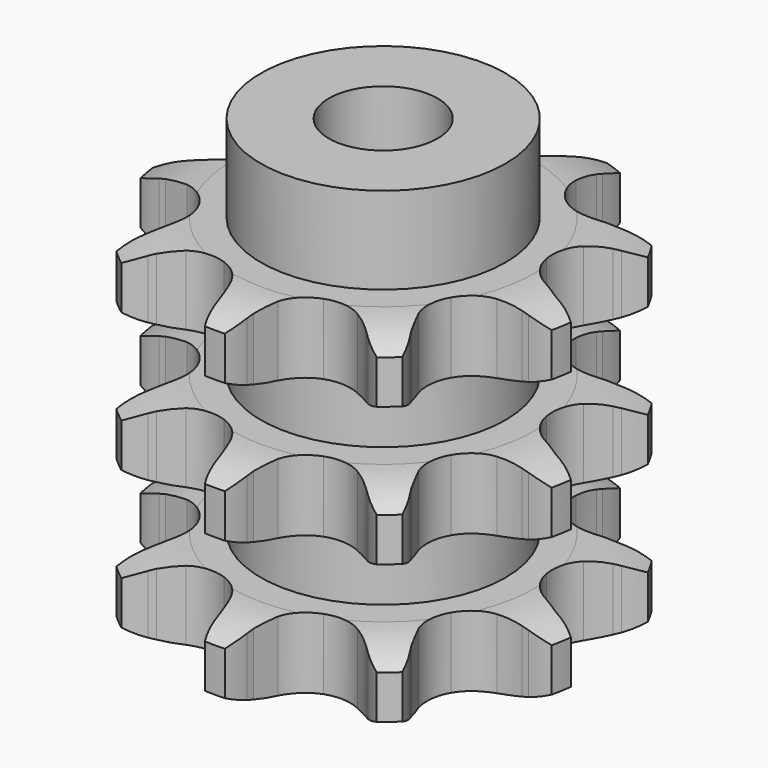
from build123d import *

# Parameters (mm, degrees)
PAD_DEPTH         = 25.6
SKETCH001_R       = 9
PAD001_DEPTH      = 32
SKETCH002_R       = 4
POCKET_DEPTH      = 0.001
POCKET_DEPTH_BACK = 32.001


with BuildPart() as part:
    # Sprocket → Pad (new body)
    with BuildSketch(Plane.XY):
        with BuildLine():
            ThreePointArc((-5.677804, 15.599638), (-4.530468, 14.728486), (-3.653036, 13.585944))
            Line((-3.653036, 13.585944), (-3.408939, 13.161256))
            ThreePointArc((-3.408939, 13.161256), (-2.946106, 12.443997), (-2.412125, 11.778009))
            ThreePointArc((-2.412125, 11.778009), (-1.321918, 10.978636), (0, 10.695643))
            ThreePointArc((0, 10.695643), (1.321918, 10.978636), (2.412125, 11.778009))
            ThreePointArc((2.412125, 11.778009), (2.946106, 12.443997), (3.408939, 13.161256))
            Line((3.408939, 13.161256), (3.653036, 13.585944))
            ThreePointArc((3.653036, 13.585944), (4.530468, 14.728486), (5.677804, 15.599638))
            ThreePointArc((5.677804, 15.599638), (5.996748, 14.194803), (5.934489, 12.755564))
            Line((5.934489, 12.755564), (5.848494, 12.273331))
            ThreePointArc((5.848494, 12.273331), (5.741999, 11.426375), (5.722963, 10.572963))
            ThreePointArc((5.722963, 10.572963), (6.044283, 9.259835), (6.875027, 8.193338))
            ThreePointArc((6.875027, 8.193338), (8.069579, 7.560411), (9.418554, 7.471994))
            Line((9.418554, 7.471994), (11.071291, 7.890883))
            ThreePointArc((11.071291, 7.890883), (11.300037, 7.978487), (11.531265, 8.059311))
            ThreePointArc((11.531265, 8.059311), (12.937828, 8.370546), (14.376704, 8.300394))
            ThreePointArc((14.376704, 8.300394), (13.718019, 7.019214), (12.7452, 5.956713))
            Line((12.7452, 5.956713), (12.369351, 5.642578))
            ThreePointArc((12.369351, 5.642578), (11.743359, 5.062226), (11.180214, 4.42071))
            ThreePointArc((11.180214, 4.42071), (10.582297, 3.208255), (10.533153, 1.857279))
            ThreePointArc((10.533153, 1.857279), (11.041394, 0.604585), (12.017936, -0.33025))
            Line((12.017936, -0.33025), (13.553263, -1.071722))
            ThreePointArc((13.553263, -1.071722), (13.784803, -1.151648), (14.013886, -1.238364))
            ThreePointArc((14.013886, -1.238364), (15.291434, -1.904065), (16.348585, -2.882697))
            ThreePointArc((16.348585, -2.882697), (15.020477, -3.440743), (13.592291, -3.62935))
            Line((13.592291, -3.62935), (13.102452, -3.6284))
            ThreePointArc((13.102452, -3.6284), (12.249871, -3.670596), (11.406118, -3.800043))
            ThreePointArc((11.406118, -3.800043), (10.168736, -4.344504), (9.262699, -5.347822))
            ThreePointArc((9.262699, -5.347822), (8.846819, -6.634132), (8.993993, -7.977966))
            Line((8.993993, -7.977966), (9.693513, -9.532856))
            ThreePointArc((9.693513, -9.532856), (9.819507, -9.742914), (9.939255, -9.956594))
            ThreePointArc((9.939255, -9.956594), (10.490009, -11.287743), (10.670781, -12.716941))
            ThreePointArc((10.670781, -12.716941), (9.294686, -12.290738), (8.079398, -11.5172))
            Line((8.079398, -11.5172), (7.70477, -11.201609))
            ThreePointArc((7.70477, -11.201609), (7.024532, -10.685904), (6.294973, -10.242713))
            ThreePointArc((6.294973, -10.242713), (4.997111, -9.864421), (3.658126, -10.050617))
            ThreePointArc((3.658126, -10.050617), (2.512718, -10.768666), (1.76166, -11.892704))
            Line((1.76166, -11.892704), (1.29806, -13.533461))
            ThreePointArc((1.29806, -13.533461), (1.259555, -13.775362), (1.213936, -14.016024))
            ThreePointArc((1.213936, -14.016024), (0.780192, -15.38976), (0, -16.600788))
            ThreePointArc((0, -16.600788), (-0.780192, -15.38976), (-1.213936, -14.016024))
            Line((-1.213936, -14.016024), (-1.29806, -13.533461))
            ThreePointArc((-1.29806, -13.533461), (-1.487663, -12.70116), (-1.76166, -11.892704))
            ThreePointArc((-1.76166, -11.892704), (-2.512718, -10.768666), (-3.658126, -10.050617))
            ThreePointArc((-3.658126, -10.050617), (-4.997111, -9.864421), (-6.294973, -10.242713))
            Line((-6.294973, -10.242713), (-7.70477, -11.201609))
            ThreePointArc((-7.70477, -11.201609), (-7.889758, -11.362166), (-8.079398, -11.5172))
            ThreePointArc((-8.079398, -11.5172), (-9.294686, -12.290738), (-10.670781, -12.716941))
            ThreePointArc((-10.670781, -12.716941), (-10.490009, -11.287743), (-9.939255, -9.956594))
            Line((-9.939255, -9.956594), (-9.693513, -9.532856))
            ThreePointArc((-9.693513, -9.532856), (-9.303764, -8.773401), (-8.993993, -7.977966))
            ThreePointArc((-8.993993, -7.977966), (-8.846819, -6.634132), (-9.262699, -5.347822))
            ThreePointArc((-9.262699, -5.347822), (-10.168736, -4.344504), (-11.406118, -3.800043))
            Line((-11.406118, -3.800043), (-13.102452, -3.6284))
            ThreePointArc((-13.102452, -3.6284), (-13.347364, -3.632486), (-13.592291, -3.62935))
            ThreePointArc((-13.592291, -3.62935), (-15.020477, -3.440743), (-16.348585, -2.882697))
            ThreePointArc((-16.348585, -2.882697), (-15.291434, -1.904065), (-14.013886, -1.238364))
            Line((-14.013886, -1.238364), (-13.553263, -1.071722))
            ThreePointArc((-13.553263, -1.071722), (-12.766531, -0.740471), (-12.017936, -0.33025))
            ThreePointArc((-12.017936, -0.33025), (-11.041394, 0.604585), (-10.533153, 1.857279))
            ThreePointArc((-10.533153, 1.857279), (-10.582297, 3.208255), (-11.180214, 4.42071))
            Line((-11.180214, 4.42071), (-12.369351, 5.642578))
            ThreePointArc((-12.369351, 5.642578), (-12.559591, 5.796875), (-12.7452, 5.956713))
            ThreePointArc((-12.7452, 5.956713), (-13.718019, 7.019214), (-14.376704, 8.300394))
            ThreePointArc((-14.376704, 8.300394), (-12.937828, 8.370546), (-11.531265, 8.059311))
            Line((-11.531265, 8.059311), (-11.071291, 7.890883))
            ThreePointArc((-11.071291, 7.890883), (-10.255695, 7.638934), (-9.418554, 7.471994))
            ThreePointArc((-9.418554, 7.471994), (-8.069579, 7.560411), (-6.875027, 8.193338))
            ThreePointArc((-6.875027, 8.193338), (-6.044283, 9.259835), (-5.722963, 10.572963))
            Line((-5.722963, 10.572963), (-5.848494, 12.273331))
            ThreePointArc((-5.848494, 12.273331), (-5.895046, 12.513813), (-5.934489, 12.755564))
            ThreePointArc((-5.934489, 12.755564), (-5.996748, 14.194803), (-5.677804, 15.599638))
        make_face()
    extrude(amount=PAD_DEPTH)

    # Sketch → Groove (revolve, cut)
    with BuildSketch(Plane.XZ):
        with BuildLine():
            ThreePointArc((11.141101, 0), (13.377169, 0.253206), (15.5, 1))
            Line((15.5, 1), (15.5, 4.2))
            ThreePointArc((15.5, 4.2), (13.377169, 4.946794), (11.141101, 5.2))
            Line((9, 5.2), (11.141101, 5.2))
            Line((9, 5.2), (9, 10.2))
            Line((9, 10.2), (11.141101, 10.2))
            ThreePointArc((11.141101, 10.2), (13.377169, 10.453206), (15.5, 11.2))
            Line((15.5, 14.4), (15.5, 11.2))
            ThreePointArc((15.5, 14.4), (13.377169, 15.146794), (11.141101, 15.4))
            Line((9, 15.4), (11.141101, 15.4))
            Line((9, 20.4), (9, 15.4))
            Line((11.141101, 20.4), (9, 20.4))
            ThreePointArc((11.141101, 20.4), (13.377169, 20.653206), (15.5, 21.4))
            Line((15.5, 21.4), (15.5, 24.6))
            ThreePointArc((15.5, 24.6), (13.377169, 25.346794), (11.141101, 25.6))
            Line((11.141101, 25.6), (25.5, 25.6))
            Line((25.5, 25.6), (25.5, 0))
            Line((11.141101, 0), (25.5, 0))
        make_face()
    revolve(axis=Axis((0, 0, 0), (0, 0, 1)), mode=Mode.SUBTRACT)

    # Sketch001 → Pad001 (join)
    with BuildSketch(Plane.XY):
        Circle(SKETCH001_R)
    extrude(amount=PAD001_DEPTH)

    # Sketch002 → Pocket (cut, two sides)
    with BuildSketch(Plane.XY) as pocket_sk:
        Circle(SKETCH002_R)
    extrude(amount=-POCKET_DEPTH, mode=Mode.SUBTRACT)
    extrude(pocket_sk.sketch, amount=POCKET_DEPTH_BACK, mode=Mode.SUBTRACT)


solid = part.part
